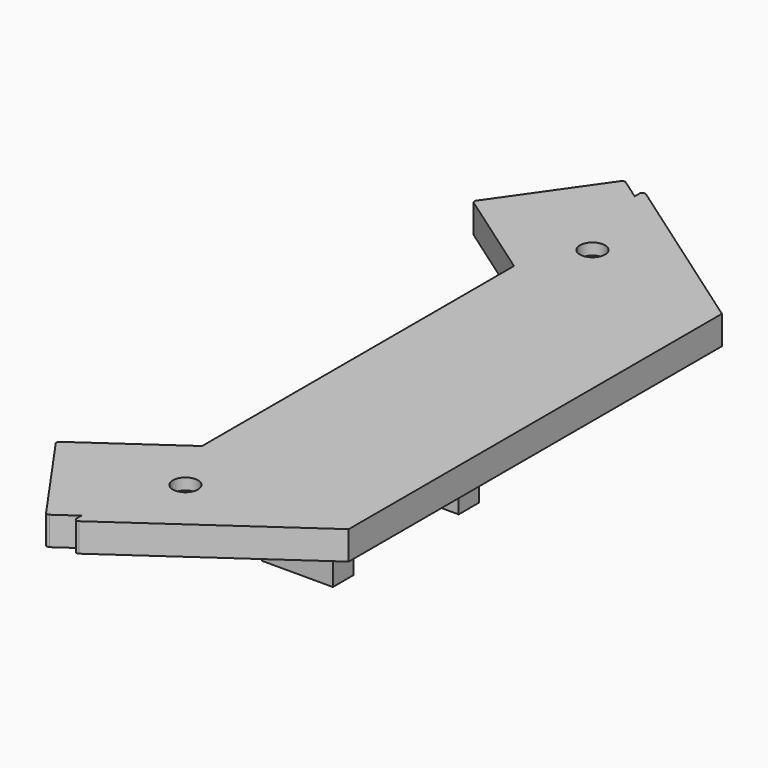
from build123d import *

# Parameters (mm, degrees)
PAD_DEPTH       = 5
SKETCH001_R     = 2.2
POCKET_DEPTH    = 5.001
POCKET001_DEPTH = 1.6
POCKET002_DEPTH = 1.4
SKETCH004_W     = 12.4
SKETCH004_H     = 4.5
PAD001_DEPTH    = 18
SKETCH005_W     = 8.2
SKETCH005_H     = 4.5
POCKET003_DEPTH = 4.5
SKETCH006_R     = 0.85
POCKET004_DEPTH = 10
FILLET_R        = 0.5


with BuildPart() as part:
    # Sketch → Pad (new body)
    with BuildSketch(Plane.XY):
        Polygon((0, 0), (0, 2.03), (-3.993194, -0.766064), (-16.383041, 16.928471), (0, 28.4), (0, 96.58), (-16.383041, 108.051529), (-3.983797, 125.759485), (0, 122.97), (0, 125), (31, 103.293566), (31, 21.706434), align=None)
    extrude(amount=PAD_DEPTH)

    # Sketch001 (on Face14 of Pad) → Pocket (cut, through all)
    with BuildSketch(Plane.XY.offset(5)):
        with Locations((5.4, 107)):
            Circle(SKETCH001_R)
        with Locations((5.4, 18)):
            Circle(SKETCH001_R)
    extrude(amount=-POCKET_DEPTH, mode=Mode.SUBTRACT)

    # Sketch002 (on Face4 of Pocket) → Pocket001 (cut)
    with BuildSketch(Plane(origin=(0, 0, 0), x_dir=(1, 0, 0), z_dir=(0, 0, -1))):
        Polygon((-12.16396, -15.89505), (-2.585234, -2.215211), (31, -25.731845), (21.421274, -39.411684), align=None)
        Polygon((-2.585234, -122.784789), (-12.16396, -109.10495), (21.421274, -85.588316), (31, -99.268155), align=None)
    extrude(amount=-POCKET001_DEPTH, mode=Mode.SUBTRACT)

    # Sketch003 (on Face25 of Pocket001) → Pocket002 (cut)
    with BuildSketch(Plane(origin=(0, 0, 1.6), x_dir=(1, 0, 0), z_dir=(0, 0, -1))):
        Polygon((-2.339658, -121.39206), (-10.771232, -109.350525), (21.175698, -86.981044), (29.607272, -99.022579), align=None)
        Polygon((-10.771232, -15.649475), (21.175698, -38.018956), (29.607272, -25.977421), (-2.339658, -3.60794), align=None)
    extrude(amount=-POCKET002_DEPTH, mode=Mode.SUBTRACT)

    # Sketch004 (on Face4 of Pocket002) → Pad001 (join)
    with BuildSketch(Plane(origin=(0, 0, 0), x_dir=(1, 0, 0), z_dir=(0, 0, -1))):
        with Locations((6.2, -43.74)):
            Rectangle(SKETCH004_W, SKETCH004_H)
        with Locations((6.2, -71.24)):
            Rectangle(SKETCH004_W, SKETCH004_H)
    extrude(amount=PAD001_DEPTH)

    # Sketch005 (on Face14 of Pad001) → Pocket003 (cut)
    with BuildSketch(Plane(origin=(0, 73.49, 0), x_dir=(-1, 0, 0), z_dir=(0, 1, 0))):
        with Locations((-6.2, -2.25)):
            Rectangle(SKETCH005_W, SKETCH005_H)
    extrude(amount=-POCKET003_DEPTH, mode=Mode.SUBTRACT)

    # Sketch006 (on Face31 of Pocket003) → Pocket004 (cut)
    with BuildSketch(Plane(origin=(0, 0, -18), x_dir=(1, 0, 0), z_dir=(0, 0, -1))):
        with Locations((6.2, -43.74)):
            Circle(SKETCH006_R)
        with Locations((6.2, -71.24)):
            Circle(SKETCH006_R)
    extrude(amount=-POCKET004_DEPTH, mode=Mode.SUBTRACT)

    # Fillet
    fillet_edges = [part.edges().sort_by_distance(p)[0] for p in [
        (0, 0, 2.5),
        (-3.993194, -0.766064, 2.5),
        (-16.383041, 16.928471, 2.5),
        (-16.383041, 108.051529, 2.5),
        (-3.983797, 125.759485, 2.5),
        (0, 125, 2.5),
    ]]
    fillet(fillet_edges, radius=FILLET_R)


solid = part.part
